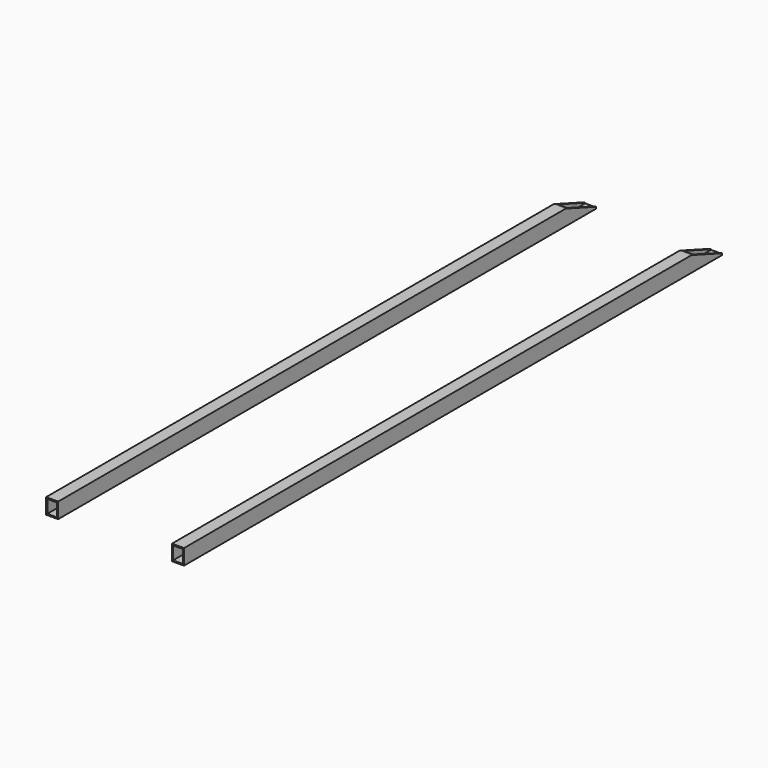
from build123d import *

# Parameters (mm, degrees)
F0_W     = 70
F0_H     = 90
F0_W_2   = 56
F0_H_2   = 76
F1_DEPTH = 3900
F3_DEPTH = 800.001
F5_DEPTH = 70.001


with BuildPart() as f1:
    # F0 (on Front) → F1 (new body)
    with BuildSketch(Plane.XZ):
        with Locations((-6.005581, 18.751773)):
            Rectangle(F0_W, F0_H)
        with Locations((-6.005581, 18.751773)):
            Rectangle(F0_W_2, F0_H_2, mode=Mode.SUBTRACT)
        with Locations((723.994419, 18.751773)):
            Rectangle(F0_W, F0_H)
        with Locations((723.994419, 18.751773)):
            Rectangle(F0_W_2, F0_H_2, mode=Mode.SUBTRACT)
    extrude(amount=-F1_DEPTH)

    # F2 (on face) → F3 (cut, through all)
    with BuildSketch(Plane.YZ.offset(758.994419)):
        Polygon((3900, 63.751773), (3680, 63.751773), (3900, -16.248227), align=None)
    extrude(amount=-F3_DEPTH, mode=Mode.SUBTRACT)

    # F4 (on face) → F5 (cut, through all)
    with BuildSketch(Plane.YZ.offset(28.994419)):
        Polygon((3900, 63.751773), (3680, 63.751773), (3900, -16.248227), align=None)
    extrude(amount=-F5_DEPTH, mode=Mode.SUBTRACT)


solid = f1.part
